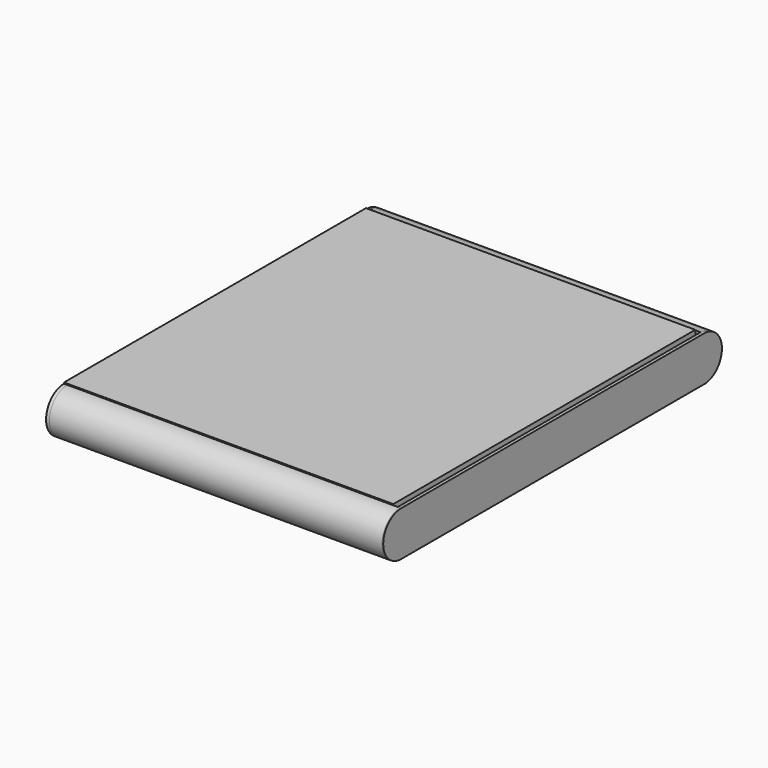
from build123d import *

# Parameters (mm, degrees)
CYLINDER001_R     = 10
CYLINDER001_DEPTH = 1.5
BOX001_W          = 1.5
BOX001_H          = 170
BOX001_DEPTH      = 20
CYLINDER_R        = 10
CYLINDER_DEPTH    = 1.5
BOX003_W          = 150
BOX003_H          = 169
BOX003_DEPTH      = 22
TUBE001_R         = 10
TUBE001_R_2       = 8.5
TUBE001_DEPTH     = 150
TUBE_R            = 10
TUBE_R_2          = 8.5
TUBE_DEPTH        = 150
BOX005_W          = 147
BOX005_H          = 168.5
BOX005_DEPTH      = 2.5
CYLINDER004_R     = 3.5
CYLINDER004_DEPTH = 10
BOX004_W          = 10
BOX004_H          = 110
BOX004_DEPTH      = 10
CYLINDER003_R     = 10
CYLINDER003_DEPTH = 1.5
BOX002_W          = 1.5
BOX002_H          = 170
BOX002_DEPTH      = 20
CYLINDER002_R     = 10
CYLINDER002_DEPTH = 1.5
BOX006_W          = 3
BOX006_H          = 3
BOX006_DEPTH      = 16.5
BOX007_W          = 3
BOX007_H          = 3
BOX007_DEPTH      = 16.5
BOX008_W          = 3
BOX008_H          = 3
BOX008_DEPTH      = 16.5
BOX009_W          = 3
BOX009_H          = 3
BOX009_DEPTH      = 16.5
BOX010_W          = 3
BOX010_H          = 3
BOX010_DEPTH      = 16.5
BOX011_W          = 3
BOX011_H          = 3
BOX011_DEPTH      = 16.5
CYLINDER005_R     = 2
CYLINDER005_DEPTH = 16.5
CYLINDER006_R     = 2
CYLINDER006_DEPTH = 16.5
BOX012_W          = 0.5
BOX012_H          = 1
BOX012_DEPTH      = 10
BOX013_W          = 0.5
BOX013_H          = 1
BOX013_DEPTH      = 10
BOX014_W          = 0.5
BOX014_H          = 1
BOX014_DEPTH      = 10
BOX015_W          = 0.5
BOX015_H          = 1
BOX015_DEPTH      = 10
BOX016_W          = 0.5
BOX016_H          = 1
BOX016_DEPTH      = 10
BOX017_W          = 0.5
BOX017_H          = 1
BOX017_DEPTH      = 10
BOX018_W          = 0.5
BOX018_H          = 1
BOX018_DEPTH      = 10
BOX019_W          = 0.5
BOX019_H          = 1
BOX019_DEPTH      = 10
BOX_W             = 150
BOX_H             = 170
BOX_DEPTH         = 1.5
TUBE003_R         = 3
TUBE003_R_2       = 1
TUBE003_DEPTH     = 5
TUBE004_R         = 3
TUBE004_R_2       = 1
TUBE004_DEPTH     = 5
TUBE005_R         = 3
TUBE005_R_2       = 1
TUBE005_DEPTH     = 5
TUBE002_R         = 3
TUBE002_R_2       = 1
TUBE002_DEPTH     = 5


with BuildPart() as cylinder001:
    # Cylinder001 → Cylinder001 (new body)
    with BuildSketch(Plane(origin=(0, 169, 0), x_dir=(0, 0, -1), z_dir=(1, 0, 0))):
        Circle(CYLINDER001_R)
    extrude(amount=CYLINDER001_DEPTH)


with BuildPart() as cube001:
    # Box001 → Box001 (new body)
    with BuildSketch(Plane.XY.offset(-10)):
        with Locations((0.75, 85)):
            Rectangle(BOX001_W, BOX001_H)
    extrude(amount=BOX001_DEPTH)


with BuildPart() as front:
    # Cylinder → Cylinder (new body)
    with BuildSketch(Plane(origin=(0, 0, 0), x_dir=(0, 0, -1), z_dir=(1, 0, 0))):
        Circle(CYLINDER_R)
    extrude(amount=CYLINDER_DEPTH)

    # Fusion: union Cylinder001, Cube001
    add(cylinder001.part)
    add(cube001.part)


with BuildPart() as front_1:
    # Fusion placement: moved
    add(front.part.moved(Location((149, 0, 0))))


with BuildPart() as cube:
    # Box003 → Box003 (new body)
    with BuildSketch(Plane.XY.offset(-11)):
        with Locations((75, 84.5)):
            Rectangle(BOX003_W, BOX003_H)
    extrude(amount=BOX003_DEPTH)


with BuildPart() as rightcurve:
    # Tube001 → Tube001 (new body)
    with BuildSketch(Plane(origin=(0, 169, 0), x_dir=(0, 0, -1), z_dir=(1, 0, 0))):
        Circle(TUBE001_R)
        Circle(TUBE001_R_2, mode=Mode.SUBTRACT)
    extrude(amount=TUBE001_DEPTH)


with BuildPart() as cut:
    # Tube → Tube (new body)
    with BuildSketch(Plane(origin=(0, 0, 0), x_dir=(0, 0, -1), z_dir=(1, 0, 0))):
        Circle(TUBE_R)
        Circle(TUBE_R_2, mode=Mode.SUBTRACT)
    extrude(amount=TUBE_DEPTH)

    # Fusion002: union RightCurve
    add(rightcurve.part)

    # Cut: cut Cube
    add(cube.part, mode=Mode.SUBTRACT)


with BuildPart() as top:
    # Box005 → Box005 (new body)
    with BuildSketch(Plane.XY.offset(8)):
        with Locations((73.5, 84.25)):
            Rectangle(BOX005_W, BOX005_H)
    extrude(amount=BOX005_DEPTH)


with BuildPart() as pwrjack:
    # Cylinder004 → Cylinder004 (new body)
    with BuildSketch(Plane(origin=(-3, 9, 0), x_dir=(0, 0, -1), z_dir=(1, 0, 0))):
        Circle(CYLINDER004_R)
    extrude(amount=CYLINDER004_DEPTH)


with BuildPart() as cube003:
    # Box004 → Box004 (new body)
    with BuildSketch(Plane(origin=(-3, 38, -5), x_dir=(1, 0, 0), z_dir=(0, 0, 1))):
        with Locations((5, 55)):
            Rectangle(BOX004_W, BOX004_H)
    extrude(amount=BOX004_DEPTH)


with BuildPart() as cylinder003:
    # Cylinder003 → Cylinder003 (new body)
    with BuildSketch(Plane(origin=(0, 169, 0), x_dir=(0, 0, -1), z_dir=(1, 0, 0))):
        Circle(CYLINDER003_R)
    extrude(amount=CYLINDER003_DEPTH)


with BuildPart() as cube002:
    # Box002 → Box002 (new body)
    with BuildSketch(Plane.XY.offset(-10)):
        with Locations((0.75, 85)):
            Rectangle(BOX002_W, BOX002_H)
    extrude(amount=BOX002_DEPTH)


with BuildPart() as cut003:
    # Cylinder002 → Cylinder002 (new body)
    with BuildSketch(Plane(origin=(0, 0, 0), x_dir=(0, 0, -1), z_dir=(1, 0, 0))):
        Circle(CYLINDER002_R)
    extrude(amount=CYLINDER002_DEPTH)

    # Fusion001: union Cylinder003, Cube002
    add(cylinder003.part)
    add(cube002.part)

    # Cut001: cut Cube003
    add(cube003.part, mode=Mode.SUBTRACT)

    # Cut003: cut pwrjack
    add(pwrjack.part, mode=Mode.SUBTRACT)


with BuildPart() as cube004:
    # Box006 → Box006 (new body)
    with BuildSketch(Plane.XY.offset(-9)):
        with Locations((1.5, 1.5)):
            Rectangle(BOX006_W, BOX006_H)
    extrude(amount=BOX006_DEPTH)


with BuildPart() as cube005:
    # Box007 → Box007 (new body)
    with BuildSketch(Plane(origin=(0, 163, -9), x_dir=(1, 0, 0), z_dir=(0, 0, 1))):
        with Locations((1.5, 1.5)):
            Rectangle(BOX007_W, BOX007_H)
    extrude(amount=BOX007_DEPTH)


with BuildPart() as cube006:
    # Box008 → Box008 (new body)
    with BuildSketch(Plane(origin=(147, 118, -9), x_dir=(1, 0, 0), z_dir=(0, 0, 1))):
        with Locations((1.5, 1.5)):
            Rectangle(BOX008_W, BOX008_H)
    extrude(amount=BOX008_DEPTH)


with BuildPart() as cube007:
    # Box009 → Box009 (new body)
    with BuildSketch(Plane(origin=(147, 163, -9), x_dir=(1, 0, 0), z_dir=(0, 0, 1))):
        with Locations((1.5, 1.5)):
            Rectangle(BOX009_W, BOX009_H)
    extrude(amount=BOX009_DEPTH)


with BuildPart() as cube008:
    # Box010 → Box010 (new body)
    with BuildSketch(Plane(origin=(147, 63, -9), x_dir=(1, 0, 0), z_dir=(0, 0, 1))):
        with Locations((1.5, 1.5)):
            Rectangle(BOX010_W, BOX010_H)
    extrude(amount=BOX010_DEPTH)


with BuildPart() as cube009:
    # Box011 → Box011 (new body)
    with BuildSketch(Plane(origin=(147, 2, -9), x_dir=(1, 0, 0), z_dir=(0, 0, 1))):
        with Locations((1.5, 1.5)):
            Rectangle(BOX011_W, BOX011_H)
    extrude(amount=BOX011_DEPTH)


with BuildPart() as cylinder005:
    # Cylinder005 → Cylinder005 (new body)
    with BuildSketch(Plane(origin=(69, 1, -9), x_dir=(1, 0, 0), z_dir=(0, 0, 1))):
        Circle(CYLINDER005_R)
    extrude(amount=CYLINDER005_DEPTH)


with BuildPart() as cylinder006:
    # Cylinder006 → Cylinder006 (new body)
    with BuildSketch(Plane(origin=(69, 168, -9), x_dir=(1, 0, 0), z_dir=(0, 0, 1))):
        Circle(CYLINDER006_R)
    extrude(amount=CYLINDER006_DEPTH)


with BuildPart() as cube010:
    # Box012 → Box012 (new body)
    with BuildSketch(Plane(origin=(0, 65, -5), x_dir=(1, 0, 0), z_dir=(0, 0, 1))):
        with Locations((0.25, 0.5)):
            Rectangle(BOX012_W, BOX012_H)
    extrude(amount=BOX012_DEPTH)


with BuildPart() as cube011:
    # Box013 → Box013 (new body)
    with BuildSketch(Plane(origin=(0, 52, -5), x_dir=(1, 0, 0), z_dir=(0, 0, 1))):
        with Locations((0.25, 0.5)):
            Rectangle(BOX013_W, BOX013_H)
    extrude(amount=BOX013_DEPTH)


with BuildPart() as cube012:
    # Box014 → Box014 (new body)
    with BuildSketch(Plane(origin=(0, 78, -5), x_dir=(1, 0, 0), z_dir=(0, 0, 1))):
        with Locations((0.25, 0.5)):
            Rectangle(BOX014_W, BOX014_H)
    extrude(amount=BOX014_DEPTH)


with BuildPart() as cube013:
    # Box015 → Box015 (new body)
    with BuildSketch(Plane(origin=(0, 91, -5), x_dir=(1, 0, 0), z_dir=(0, 0, 1))):
        with Locations((0.25, 0.5)):
            Rectangle(BOX015_W, BOX015_H)
    extrude(amount=BOX015_DEPTH)


with BuildPart() as cube014:
    # Box016 → Box016 (new body)
    with BuildSketch(Plane(origin=(0, 104, -5), x_dir=(1, 0, 0), z_dir=(0, 0, 1))):
        with Locations((0.25, 0.5)):
            Rectangle(BOX016_W, BOX016_H)
    extrude(amount=BOX016_DEPTH)


with BuildPart() as cube015:
    # Box017 → Box017 (new body)
    with BuildSketch(Plane(origin=(0, 117, -5), x_dir=(1, 0, 0), z_dir=(0, 0, 1))):
        with Locations((0.25, 0.5)):
            Rectangle(BOX017_W, BOX017_H)
    extrude(amount=BOX017_DEPTH)


with BuildPart() as cube016:
    # Box018 → Box018 (new body)
    with BuildSketch(Plane(origin=(0, 129, -5), x_dir=(1, 0, 0), z_dir=(0, 0, 1))):
        with Locations((0.25, 0.5)):
            Rectangle(BOX018_W, BOX018_H)
    extrude(amount=BOX018_DEPTH)


with BuildPart() as cube017:
    # Box019 → Box019 (new body)
    with BuildSketch(Plane(origin=(0, 140, -5), x_dir=(1, 0, 0), z_dir=(0, 0, 1))):
        with Locations((0.25, 0.5)):
            Rectangle(BOX019_W, BOX019_H)
    extrude(amount=BOX019_DEPTH)


with BuildPart() as base:
    # Box → Box (new body)
    with BuildSketch(Plane.XY.offset(-10)):
        with Locations((75, 85)):
            Rectangle(BOX_W, BOX_H)
    extrude(amount=BOX_DEPTH)


with BuildPart() as tube003:
    # Tube003 → Tube003 (new body)
    with BuildSketch(Plane(origin=(10, 135.5, -9), x_dir=(1, 0, 0), z_dir=(0, 0, 1))):
        Circle(TUBE003_R)
        Circle(TUBE003_R_2, mode=Mode.SUBTRACT)
    extrude(amount=TUBE003_DEPTH)


with BuildPart() as tube004:
    # Tube004 → Tube004 (new body)
    with BuildSketch(Plane(origin=(127, 135, -9), x_dir=(1, 0, 0), z_dir=(0, 0, 1))):
        Circle(TUBE004_R)
        Circle(TUBE004_R_2, mode=Mode.SUBTRACT)
    extrude(amount=TUBE004_DEPTH)


with BuildPart() as tube005:
    # Tube005 → Tube005 (new body)
    with BuildSketch(Plane(origin=(127, 10, -9), x_dir=(1, 0, 0), z_dir=(0, 0, 1))):
        Circle(TUBE005_R)
        Circle(TUBE005_R_2, mode=Mode.SUBTRACT)
    extrude(amount=TUBE005_DEPTH)


with BuildPart() as fusion004:
    # Tube002 → Tube002 (new body)
    with BuildSketch(Plane(origin=(10, 10, -9), x_dir=(1, 0, 0), z_dir=(0, 0, 1))):
        Circle(TUBE002_R)
        Circle(TUBE002_R_2, mode=Mode.SUBTRACT)
    extrude(amount=TUBE002_DEPTH)

    # Fusion003: union Tube003, Tube004, Tube005
    add(tube003.part)
    add(tube004.part)
    add(tube005.part)


with BuildPart() as fusion004_1:
    # Fusion003 placement: moved
    add(fusion004.part.moved(Location((0, 20, 0))))

    # Fusion004: union base
    add(base.part)


solid = Compound([front_1.part, cut.part, top.part, cut003.part, cube004.part, cube005.part, cube006.part, cube007.part, cube008.part, cube009.part, cylinder005.part, cylinder006.part, cube010.part, cube011.part, cube012.part, cube013.part, cube014.part, cube015.part, cube016.part, cube017.part, fusion004_1.part])
